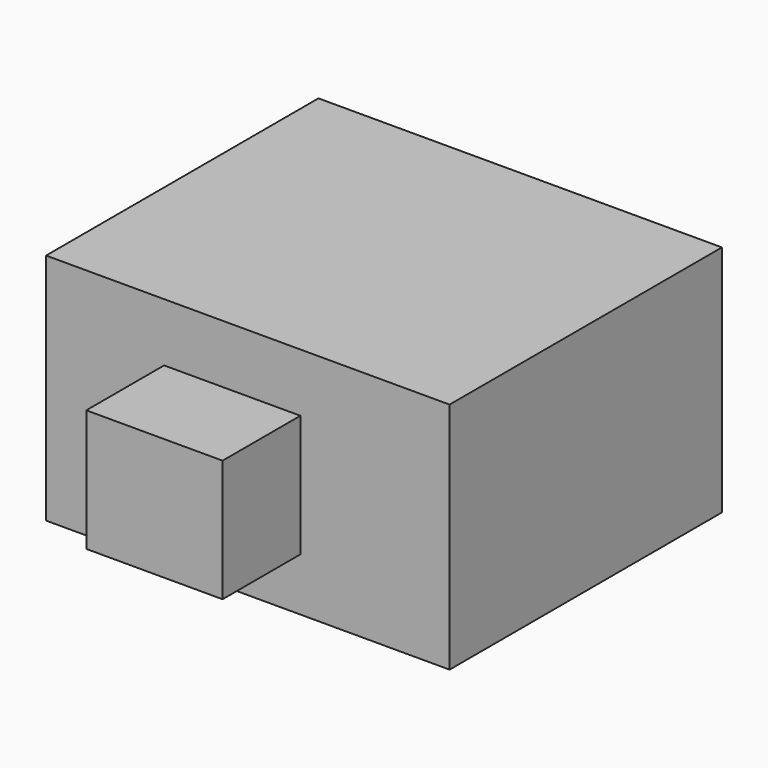
from build123d import *

# Parameters (mm, degrees)
F0_W     = 105.362009
F0_H     = 60.93785
F1_DEPTH = 88.9
F2_W     = 35.585844
F2_H     = 31.86445
F3_DEPTH = 25.4


with BuildPart() as f1:
    # F0 (on Front) → F1 (new body)
    with BuildSketch(Plane.XZ):
        with Locations((4.070277, 0.697763)):
            Rectangle(F0_W, F0_H)
    extrude(amount=F1_DEPTH)

    # F2 (on face) → F3 (join)
    with BuildSketch(Plane.XZ.offset(88.9)):
        Rectangle(F2_W, F2_H)
    extrude(amount=F3_DEPTH)


solid = f1.part
